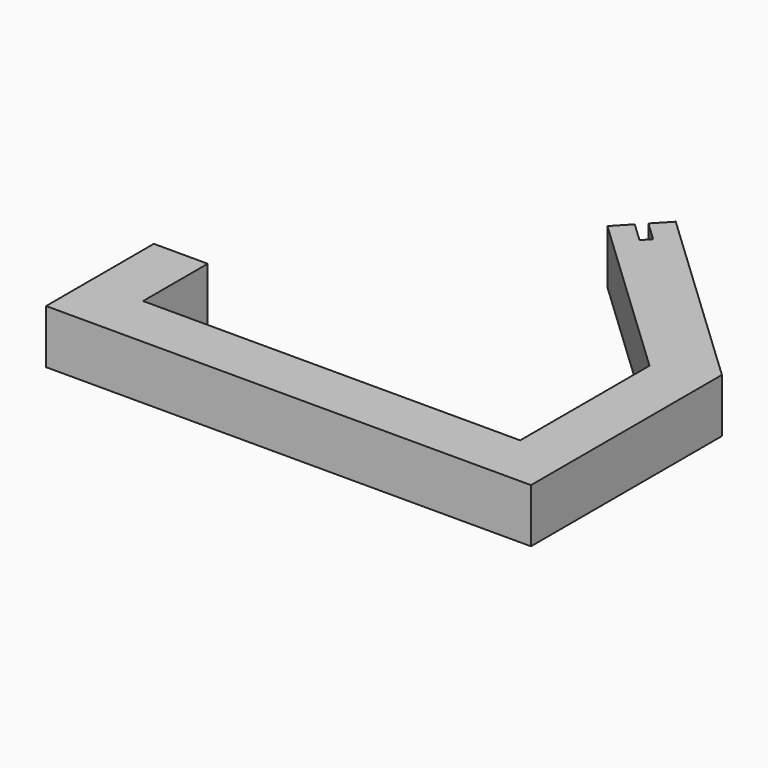
from build123d import *

# Parameters (mm, degrees)
F1_DEPTH = 10


with BuildPart() as f1:
    # F0 (on Top) → F1 (new body)
    with BuildSketch(Plane.XY):
        Polygon((-45, -40), (0, -40), (45, -40), (45, 0), (45, 4.305009), (9.727105, 37.679777), (6.977935, 34.774254), (10.609839, 31.337792), (9.235255, 29.88503), (5.60335, 33.321492), (2.854181, 30.415969), (35, 0), (35, -30), (-35, -30), (-35, -15), (-45, -15), align=None)
    extrude(amount=F1_DEPTH)


solid = f1.part
